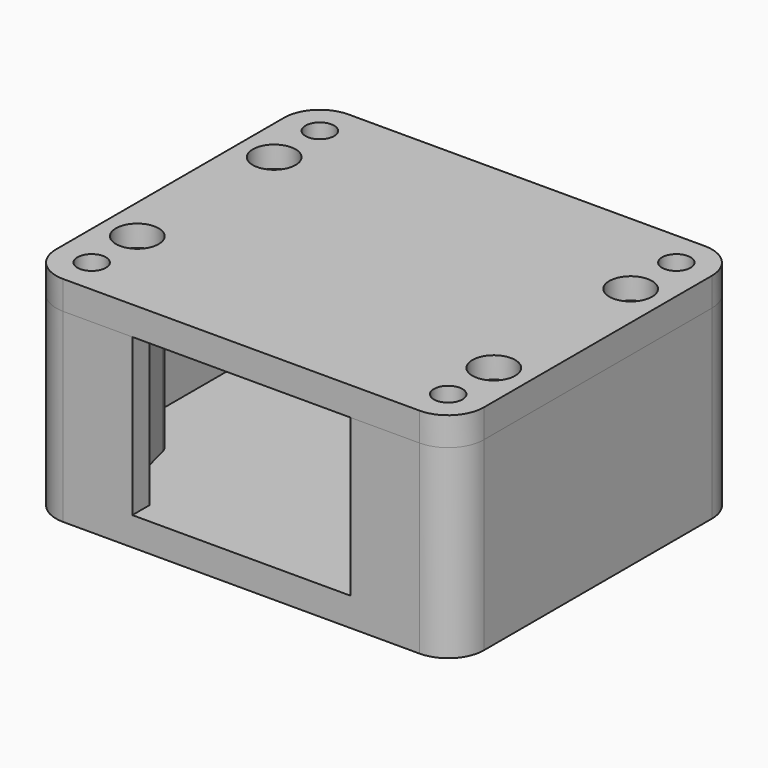
from build123d import *

# Parameters (mm, degrees)
PAD002_DEPTH    = 8
SKETCH006_R     = 1.6
POCKET003_DEPTH = 6.001
SKETCH007_R     = 2
SKETCH007_R_2   = 1.6
PAD003_DEPTH    = 4
SKETCH008_R     = 3
POCKET004_DEPTH = 3
PAD_DEPTH       = 26
SKETCH001_R     = 2
POCKET_DEPTH    = 26.001
SKETCH002_R     = 1.25
POCKET001_DEPTH = 22
SKETCH003_W     = 30
SKETCH003_H     = 8
SKETCH003_R     = 1.25
PAD001_DEPTH    = 10
SKETCH004_R     = 4.1
POCKET002_DEPTH = 11
CHAMFER_SIZE    = 2


with BuildPart() as f_2_screwholes_pocket:
    # Sketch005 → Pad002 (new body)
    with BuildSketch(Plane.XZ.offset(-23.5)):
        with BuildLine():
            ThreePointArc((-2.023821, 16), (-6, 19.1), (-9.976179, 16))
            Line((-9.976179, 16), (-15, 16))
            Line((-15, 16), (-15, 22))
            Line((-15, 22), (15, 22))
            Line((15, 22), (15, 16))
            Line((15, 16), (9.976179, 16))
            ThreePointArc((9.976179, 16), (6, 19.1), (2.023821, 16))
            Line((-2.023821, 16), (2.023821, 16))
        make_face()
    extrude(amount=PAD002_DEPTH)

    # Sketch006 → Pocket003 (cut, through all)
    with BuildSketch(Plane(origin=(0, 23.5, 22), x_dir=(-1, 0, 0), z_dir=(0, 0, 1))):
        with Locations((-12, 4)):
            Circle(SKETCH006_R)
        with Locations((0, 4)):
            Circle(SKETCH006_R)
        with Locations((12, 4)):
            Circle(SKETCH006_R)
    extrude(amount=-POCKET003_DEPTH, mode=Mode.SUBTRACT)


with BuildPart() as f_2_screwcounterborehole_pocket:
    # Sketch007 → Pad003 (new body)
    with BuildSketch(Plane.XY.offset(26)):
        with BuildLine():
            Line((-25, 25), (25, 25))
            ThreePointArc((30, 20), (28.535534, 23.535534), (25, 25))
            Line((30, 20), (30, -20))
            ThreePointArc((25, -25), (28.535534, -23.535534), (30, -20))
            Line((25, -25), (-25, -25))
            ThreePointArc((-30, -20), (-28.535534, -23.535534), (-25, -25))
            Line((-30, -20), (-30, 20))
            ThreePointArc((-25, 25), (-28.535534, 23.535534), (-30, 20))
        make_face()
        with Locations((-25, 20)):
            Circle(SKETCH007_R, mode=Mode.SUBTRACT)
        with Locations((-25, -20)):
            Circle(SKETCH007_R, mode=Mode.SUBTRACT)
        with Locations((25, 20)):
            Circle(SKETCH007_R, mode=Mode.SUBTRACT)
        with Locations((25, -20)):
            Circle(SKETCH007_R, mode=Mode.SUBTRACT)
        with Locations((-25, 12)):
            Circle(SKETCH007_R_2, mode=Mode.SUBTRACT)
        with Locations((25, 12)):
            Circle(SKETCH007_R_2, mode=Mode.SUBTRACT)
        with Locations((-25, -12)):
            Circle(SKETCH007_R_2, mode=Mode.SUBTRACT)
        with Locations((25, -12)):
            Circle(SKETCH007_R_2, mode=Mode.SUBTRACT)
    extrude(amount=PAD003_DEPTH)

    # Sketch008 → Pocket004 (cut)
    with BuildSketch(Plane.XY.offset(30)):
        with Locations((-25, 12)):
            Circle(SKETCH008_R)
        with Locations((-25, -12)):
            Circle(SKETCH008_R)
        with Locations((25, 12)):
            Circle(SKETCH008_R)
        with Locations((25, -12)):
            Circle(SKETCH008_R)
    extrude(amount=-POCKET004_DEPTH, mode=Mode.SUBTRACT)


with BuildPart() as f_6_mountingscrewhead_chamfer:
    # Sketch → Pad (new body)
    with BuildSketch(Plane.XY):
        with BuildLine():
            Line((-25, 25), (25, 25))
            ThreePointArc((30, 20), (28.535534, 23.535534), (25, 25))
            Line((30, 20), (30, -20))
            ThreePointArc((25, -25), (28.535534, -23.535534), (30, -20))
            Line((25, -25), (-25, -25))
            ThreePointArc((-30, -20), (-28.535534, -23.535534), (-25, -25))
            Line((-30, -20), (-30, 20))
            ThreePointArc((-25, 25), (-28.535534, 23.535534), (-30, 20))
        make_face()
    extrude(amount=PAD_DEPTH)

    # Sketch001 → Pocket (cut, through all)
    with BuildSketch(Plane.XY.offset(26)):
        with Locations((-25, 20)):
            Circle(SKETCH001_R)
        with Locations((25, 20)):
            Circle(SKETCH001_R)
        with Locations((-25, -20)):
            Circle(SKETCH001_R)
        with Locations((25, -20)):
            Circle(SKETCH001_R)
    extrude(amount=-POCKET_DEPTH, mode=Mode.SUBTRACT)

    # Sketch002 → Pocket001 (cut)
    with BuildSketch(Plane.XY.offset(26)):
        with Locations((-25, 12)):
            Circle(SKETCH002_R)
        with Locations((25.000004, 12)):
            Circle(SKETCH002_R)
        with Locations((-25.000013, -12)):
            Circle(SKETCH002_R)
        with Locations((25, -12)):
            Circle(SKETCH002_R)
        with BuildLine():
            ThreePointArc((-20.158771, 18.75), (-20.039852, 19.369978), (-20, 19.999999))
            Line((-20, 19.999999), (-20, 23.5))
            Line((-20, 23.5), (20, 23.5))
            Line((20, 23.5), (20, 20))
            ThreePointArc((20, 20), (20.039852, 19.369978), (20.158771, 18.749998))
            Line((22.095266, 11.249999), (20.158771, 18.749998))
            ThreePointArc((22.095266, 11.249999), (23.162885, 9.628292), (25, 9))
            Line((28.5, 9), (25, 9))
            Line((28.5, 9), (28.5, -9))
            Line((28.5, -9), (25, -9))
            ThreePointArc((25, -9), (23.162875, -9.628297), (22.095258, -11.250018))
            Line((20.158763, -18.75003), (22.095258, -11.250018))
            ThreePointArc((20.158763, -18.75003), (20.03985, -19.369993), (20, -19.999999))
            Line((20, -22), (20, -19.999999))
            Line((15.3, -22), (20, -22))
            Line((15.3, -26), (15.3, -22))
            Line((-15.3, -26), (15.3, -26))
            Line((-15.3, -22), (-15.3, -26))
            Line((-20, -22), (-15.3, -22))
            Line((-20, -20), (-20, -22))
            ThreePointArc((-20, -20), (-20.039852, -19.369974), (-20.158773, -18.749991))
            Line((-20.158773, -18.749991), (-22.095277, -11.249995))
            ThreePointArc((-22.095277, -11.249995), (-23.162892, -9.628294), (-25, -9))
            Line((-28.5, -9), (-25, -9))
            Line((-28.5, 9), (-28.5, -9))
            Line((-28.5, 9), (-25, 9))
            ThreePointArc((-25, 9), (-23.162883, 9.628292), (-22.095262, 11.25))
            Line((-22.095262, 11.25), (-20.158771, 18.75))
        make_face()
    extrude(amount=-POCKET001_DEPTH, mode=Mode.SUBTRACT)

    # Sketch003 → Pad001 (new body)
    with BuildSketch(Plane.XY.offset(4)):
        with Locations((0, 19.5)):
            Rectangle(SKETCH003_W, SKETCH003_H)
        with Locations((-12, 19.5)):
            Circle(SKETCH003_R, mode=Mode.SUBTRACT)
        with Locations((12, 19.5)):
            Circle(SKETCH003_R, mode=Mode.SUBTRACT)
        with Locations((0, 19.5)):
            Circle(SKETCH003_R, mode=Mode.SUBTRACT)
    extrude(amount=PAD001_DEPTH)

    # Sketch004 → Pocket002 (cut)
    with BuildSketch(Plane(origin=(0, 25, 0), x_dir=(-1, 0, 0), z_dir=(0, 1, 0))):
        with Locations((-6, 15)):
            Circle(SKETCH004_R)
        with Locations((6, 15)):
            Circle(SKETCH004_R)
    extrude(amount=-POCKET002_DEPTH, mode=Mode.SUBTRACT)

    # Chamfer
    chamfer_edges = [f_6_mountingscrewhead_chamfer.edges().sort_by_distance(p)[0] for p in [
        (-27, 20, 0),
        (23, 20, 0),
        (23, -20, 0),
        (-27, -20, 0),
    ]]
    chamfer(chamfer_edges, length=CHAMFER_SIZE)


solid = Compound([f_2_screwholes_pocket.part, f_2_screwcounterborehole_pocket.part, f_6_mountingscrewhead_chamfer.part])
